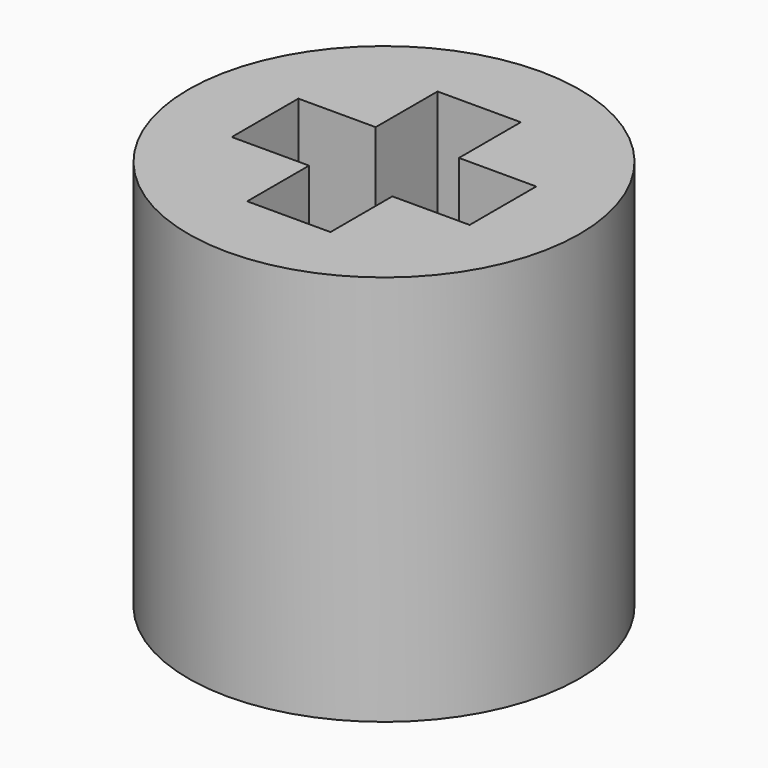
from build123d import *

# Parameters (mm, degrees)
F0_R     = 3.96875
F1_DEPTH = 7.9375


with BuildPart() as f1:
    # F0 (on Top) → F1 (new body)
    with BuildSketch(Plane.XY):
        Circle(F0_R)
        Polygon((0.84455, 0.84455), (2.413, 0.84455), (2.413, -0.84455), (0.84455, -0.84455), (0.84455, -2.413), (-0.84455, -2.413), (-0.84455, -0.84455), (-2.413, -0.84455), (-2.413, 0.84455), (-0.84455, 0.84455), (-0.84455, 2.413), (0.84455, 2.413), align=None, mode=Mode.SUBTRACT)
    extrude(amount=F1_DEPTH)


solid = f1.part
